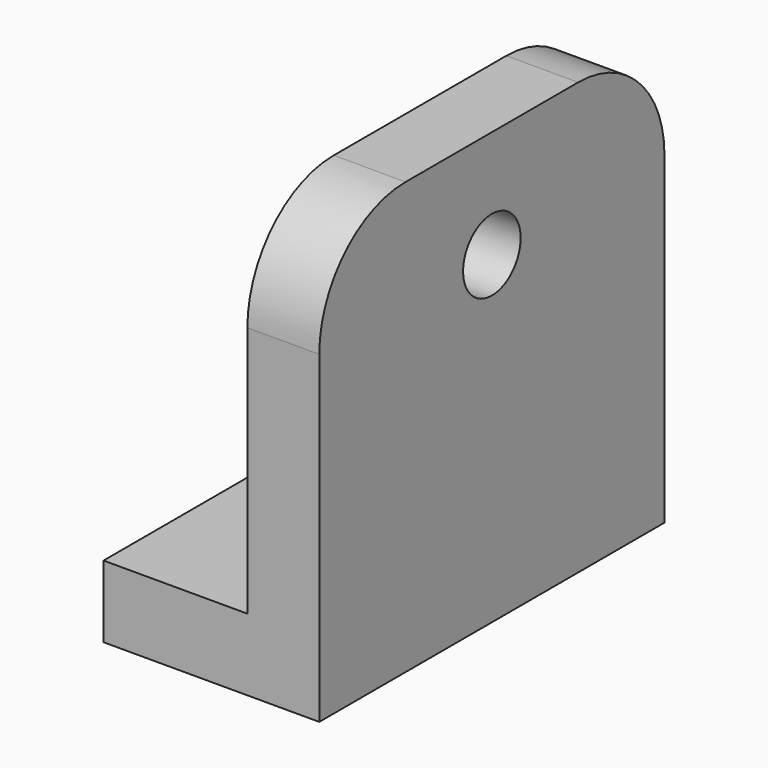
from build123d import *

# Parameters (mm, degrees)
F1_DEPTH = 76.2
F2_R     = 12.7
F3_DEPTH = 76.201
F5_DEPTH = 25.401
F6_R     = 19.05
F6_R_2   = 12.7
F7_DEPTH = 6.35
F9_DEPTH = 25.401


with BuildPart() as f1:
    # F0 (on Front) → F1 (new body, symmetric)
    with BuildSketch(Plane.XZ):
        Polygon((-76.2, 0), (0, 0), (0, 152.4), (-25.4, 152.4), (-25.4, 25.4), (-76.2, 25.4), align=None)
    extrude(amount=F1_DEPTH, both=True)

    # F2 (on face) → F3 (cut, through all)
    with BuildSketch(Plane.YZ):
        with Locations((0, 114.3)):
            Circle(F2_R)
    extrude(amount=-F3_DEPTH, mode=Mode.SUBTRACT)

    # F4 (on face) → F5 (cut, through all)
    with BuildSketch(Plane.XY.offset(25.4)):
        with BuildLine():
            ThreePointArc((-63.5, -12.7), (-50.8, 0), (-63.5, 12.7))
            Line((-63.5, 12.7), (-76.2, 12.7))
            Line((-76.2, 12.7), (-76.2, -12.7))
            Line((-76.2, -12.7), (-63.5, -12.7))
        make_face()
    extrude(amount=-F5_DEPTH, mode=Mode.SUBTRACT)

    # F6 (on face) → F7 (cut)
    with BuildSketch(Plane(origin=(-25.4, 0, 0), x_dir=(0, -1, 0), z_dir=(-1, 0, 0))):
        with Locations((0, 114.3)):
            Circle(F6_R)
        with Locations((0, 114.3)):
            Circle(F6_R_2, mode=Mode.SUBTRACT)
    extrude(amount=-F7_DEPTH, mode=Mode.SUBTRACT)

    # F8 (on face) → F9 (cut, through all)
    with BuildSketch(Plane(origin=(-25.4, 0, 0), x_dir=(0, -1, 0), z_dir=(-1, 0, 0))):
        with BuildLine():
            ThreePointArc((-76.2, 114.3), (-65.040768, 141.240768), (-38.1, 152.4))
            Line((-38.1, 152.4), (-76.2, 152.4))
            Line((-76.2, 152.4), (-76.2, 114.3))
        make_face()
        with BuildLine():
            ThreePointArc((38.1, 152.4), (65.040768, 141.240768), (76.2, 114.3))
            Line((76.2, 114.3), (76.2, 152.4))
            Line((76.2, 152.4), (38.1, 152.4))
        make_face()
    extrude(amount=-F9_DEPTH, mode=Mode.SUBTRACT)


solid = f1.part
